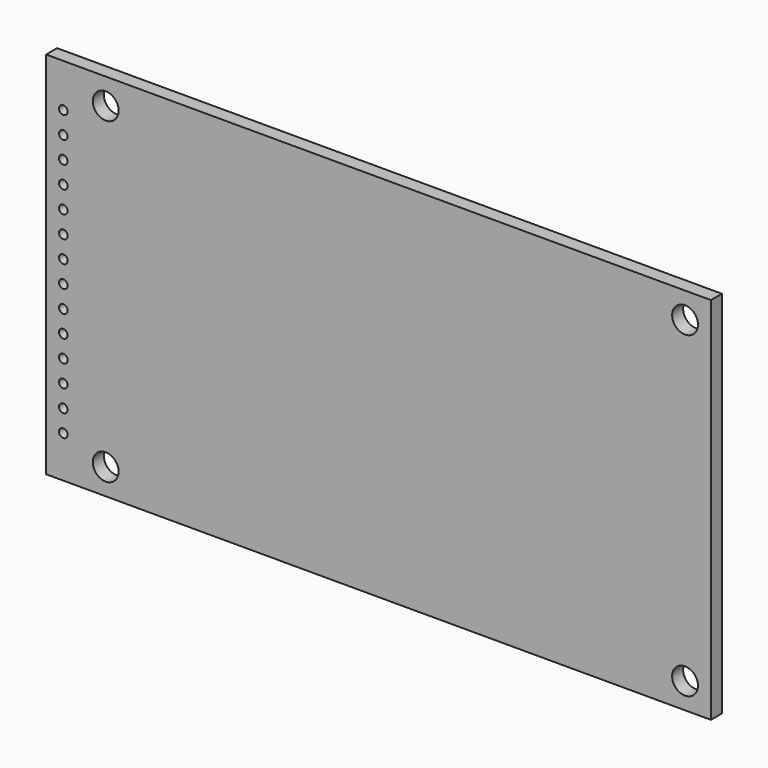
from build123d import *

# Parameters (mm, degrees)
SKETCH002_W         = 77.18
SKETCH002_H         = 42.9
SKETCH002_R         = 1.5
PAD002_DEPTH        = 1.6
SKETCH004_R         = 0.5
POCKET_DEPTH        = 5.801
POCKET_DEPTH_BACK   = 0.001
LINEARPATTERN_COUNT = 14
LINEARPATTERN_PITCH = 2.54


with BuildPart() as part:
    # Sketch002 → Pad002 (new body)
    with BuildSketch(Plane.XZ.offset(-4.2)):
        with Locations((-5.1, 0)):
            Rectangle(SKETCH002_W, SKETCH002_H)
        with Locations((30.49, 18.45)):
            Circle(SKETCH002_R, mode=Mode.SUBTRACT)
        with Locations((30.49, -18.45)):
            Circle(SKETCH002_R, mode=Mode.SUBTRACT)
        with Locations((-36.77, -18.45)):
            Circle(SKETCH002_R, mode=Mode.SUBTRACT)
        with Locations((-36.77, 18.45)):
            Circle(SKETCH002_R, mode=Mode.SUBTRACT)
    extrude(amount=-PAD002_DEPTH)

    # Sketch004 → Pocket (cut, two sides)
    with BuildSketch(Plane.XZ) as pocket_sk:
        with Locations((-41.69, -16.6)):
            Circle(SKETCH004_R)
    pocket = extrude(amount=-POCKET_DEPTH, mode=Mode.SUBTRACT) + extrude(pocket_sk.sketch, amount=POCKET_DEPTH_BACK, mode=Mode.SUBTRACT)

    # LinearPattern: Pocket ×14
    with Locations(*[(0, 0, i * LINEARPATTERN_PITCH) for i in range(1, LINEARPATTERN_COUNT)]):
        add(pocket, mode=Mode.SUBTRACT)


solid = part.part
